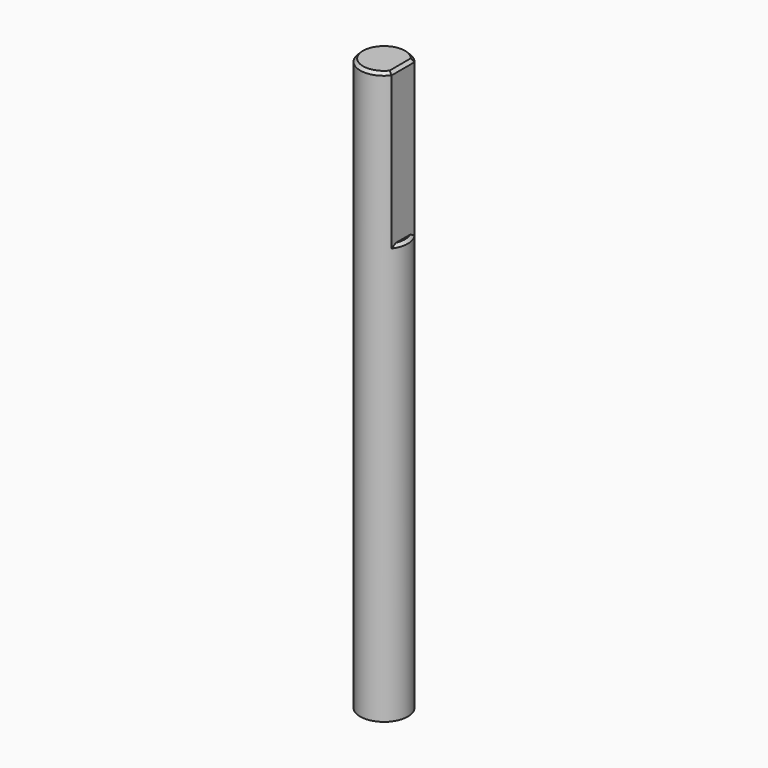
from build123d import *

# Parameters (mm, degrees)
SKETCH010_R     = 2.5
PAD005_DEPTH    = 60
SKETCH011_W     = 4
SKETCH011_H     = 4
POCKET006_DEPTH = 16
CHAMFER003_SIZE = 0.3


with BuildPart() as part:
    # Sketch010 → Pad005 (new body)
    with BuildSketch(Plane.XY):
        Circle(SKETCH010_R)
    extrude(amount=PAD005_DEPTH)

    # Sketch011 (on Face3 of Pad005) → Pocket006 (cut)
    with BuildSketch(Plane.XY.offset(60)):
        with Locations((4, 0)):
            Rectangle(SKETCH011_W, SKETCH011_H)
    extrude(amount=-POCKET006_DEPTH, mode=Mode.SUBTRACT)

    # Chamfer003
    chamfer003_edges = [part.edges().sort_by_distance(p)[0] for p in [
        (2.371708, -0.790569, 44),
        (-2.5, 0, 60),
        (2, 0, 60),
    ]]
    chamfer(chamfer003_edges, length=CHAMFER003_SIZE)


with BuildPart() as part_1:
    # Body003 placement: moved
    add(part.part.moved(Location((0, 0, 2))))


solid = part_1.part
